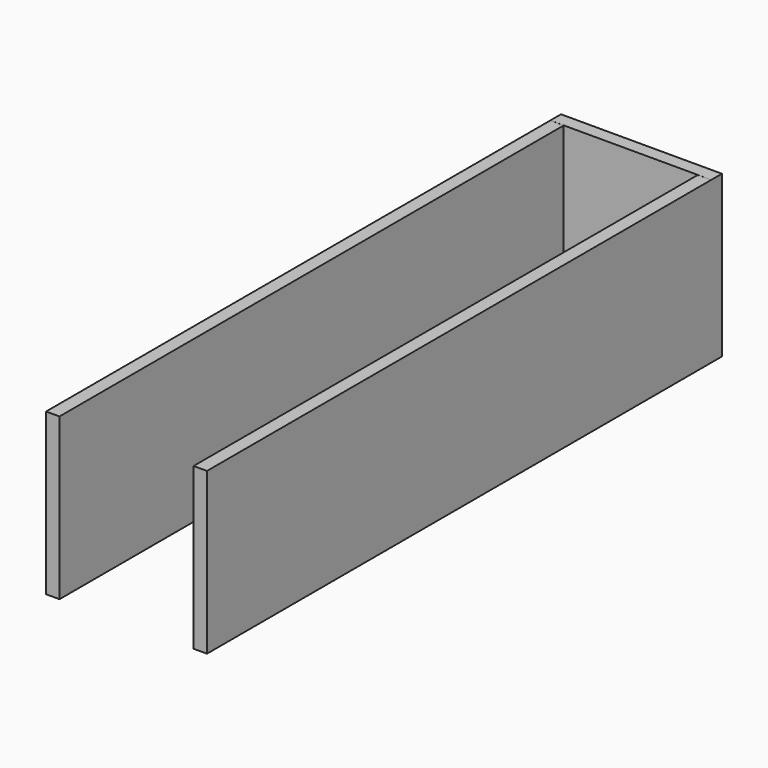
from build123d import *

# Parameters (mm, degrees)
F0_W     = 304.8
F0_H     = 76.2
F1_DEPTH = 6.35
F3_DEPTH = 76.2
F5_W     = 304.7997951508
F5_H     = 76.2000009418
F6_DEPTH = 6.35


with BuildPart() as f1:
    # F0 (on Right) → F1 (new body)
    with BuildSketch(Plane.YZ):
        with Locations((152.4, 38.1)):
            Rectangle(F0_W, F0_H)
    extrude(amount=F1_DEPTH)

    # F2 (on Right) → F3 (join)
    with BuildSketch(Plane.YZ):
        Polygon((304.7999739647, 0), (304.7999739647, 76.2000977993), (298.4695136547, 76.2183889747), (298.4695136547, 0), align=None)
    extrude(amount=F3_DEPTH)

    # F5 (on offset) → F6 (join)
    with BuildSketch(Plane.YZ.offset(76.2)):
        with Locations((152.3998975754, 38.1000004709)):
            Rectangle(F5_W, F5_H)
    extrude(amount=-F6_DEPTH)


solid = f1.part
